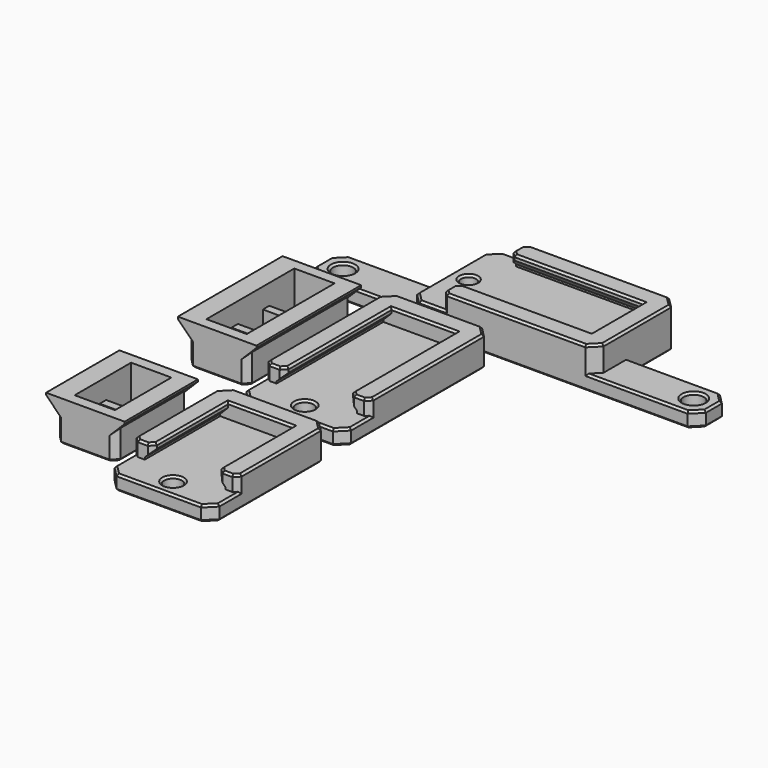
from build123d import *

# Parameters (mm, degrees)
PAD_DEPTH               = 26
SKETCH001_W             = 8
SKETCH001_H             = 6.2
POCKET_DEPTH            = 8.001
SKETCH002_W             = 8
SKETCH002_H             = 21.8
POCKET001_DEPTH         = 4
CHAMFER002_SIZE         = 1.2
CHAMFER004_SIZE         = 0.4
BODY_PLACEMENT_ANGLE    = 180
PAD001_DEPTH            = 37
SKETCH004_W             = 20.8
SKETCH004_H             = 4
PAD002_DEPTH            = 3
SKETCH005_W             = 20.8
SKETCH005_H             = 6.5
POCKET002_DEPTH         = 3
SKETCH006_R             = 1.75
POCKET003_DEPTH         = 3.001
CHAMFER_SIZE            = 2
CHAMFER003_SIZE         = 1
CHAMFER005_SIZE         = 0.4
SKETCH007_R             = 2
PAD003_DEPTH            = 3
PAD004_DEPTH            = 37
SKETCH009_W             = 4
SKETCH009_H             = 20.8
PAD005_DEPTH            = 3
SKETCH010_W             = 6.5
SKETCH010_H             = 20.8
POCKET004_DEPTH         = 3
SKETCH011_R             = 1.5
POCKET005_DEPTH         = 5.001
CHAMFER006_SIZE         = 2
CHAMFER007_SIZE         = 1
CHAMFER008_SIZE         = 0.4
PAD006_DEPTH            = 18.2
SKETCH013_W             = 8
SKETCH013_H             = 6.2
POCKET006_DEPTH         = 8.001
SKETCH014_W             = 8
SKETCH014_H             = 14
POCKET007_DEPTH         = 4
CHAMFER009_SIZE         = 1.2
CHAMFER010_SIZE         = 0.4
BODY004_PLACEMENT_ANGLE = 180
PAD007_DEPTH            = 29.2
SKETCH016_W             = 20.8
SKETCH016_H             = 4
PAD008_DEPTH            = 3
SKETCH017_W             = 20.8
SKETCH017_H             = 6.5
POCKET008_DEPTH         = 3
SKETCH018_R             = 1.75
POCKET009_DEPTH         = 3.001
CHAMFER011_SIZE         = 2
CHAMFER012_SIZE         = 1
CHAMFER013_SIZE         = 0.4


with BuildPart() as holder_3way:
    # Sketch → Pad (new body)
    with BuildSketch(Plane.XZ):
        Polygon((0.4, 0.4), (2.2, 2.2), (2.2, 8), (14.2, 8), (14.2, 2.2), (16, 0.4), (16, 0), (0.4, 0), align=None)
    extrude(amount=PAD_DEPTH)

    # Sketch001 (on Face3 of Pad) → Pocket (cut, through all)
    with BuildSketch(Plane(origin=(0, 0, 8), x_dir=(-1, 0, 0), z_dir=(0, 0, 1))):
        with Locations((-8, 20.8)):
            Rectangle(SKETCH001_W, SKETCH001_H)
        with Locations((-8, 13)):
            Rectangle(SKETCH001_W, SKETCH001_H)
        with Locations((-8, 5.2)):
            Rectangle(SKETCH001_W, SKETCH001_H)
    extrude(amount=-POCKET_DEPTH, mode=Mode.SUBTRACT)

    # Sketch002 (on Face6 of Pocket) → Pocket001 (cut)
    with BuildSketch(Plane(origin=(0, 0, 0), x_dir=(1, 0, 0), z_dir=(0, 0, -1))):
        with Locations((8, 13)):
            Rectangle(SKETCH002_W, SKETCH002_H)
    extrude(amount=-POCKET001_DEPTH, mode=Mode.SUBTRACT)

    # Chamfer002
    chamfer002_edges = [holder_3way.edges().sort_by_distance(p)[0] for p in [
        (2.2, -26, 5.1),
        (14.2, -26, 5.1),
        (14.2, 0, 5.1),
        (2.2, 0, 5.1),
    ]]
    chamfer(chamfer002_edges, length=CHAMFER002_SIZE)

    # Chamfer004
    chamfer004_edges = [holder_3way.edges().sort_by_distance(p)[0] for p in [
        (8.2, -26, 8),
        (2.8, -25.4, 8),
        (2.2, -13, 8),
        (2.8, -0.6, 8),
        (8.2, 0, 8),
        (13.6, -0.6, 8),
        (14.2, -13, 8),
        (13.6, -25.4, 8),
        (4, -20.8, 8),
        (8, -17.7, 8),
        (12, -20.8, 8),
        (8, -23.9, 8),
        (4, -13, 8),
        (8, -9.9, 8),
        (12, -13, 8),
        (8, -16.1, 8),
        (4, -5.2, 8),
        (8, -2.1, 8),
        (12, -5.2, 8),
        (8, -8.3, 8),
    ]]
    chamfer(chamfer004_edges, length=CHAMFER004_SIZE)


with BuildPart() as holder_3way_1:
    # Body placement: moved
    add(holder_3way.part.moved(Location((16, -4, 8))).rotate(Axis((16, -4, 8), (0, 1, 0)), BODY_PLACEMENT_ANGLE))


with BuildPart() as baseextrusion_3way:
    # Sketch003 → Pad001 (new body)
    with BuildSketch(Plane.XZ):
        Polygon((-2.4, -3), (18.4, -3), (18.4, 3), (14.4, 3), (14.4, 2), (16, 0.4), (16, 0), (0, 0), (0, 0.4), (1.6, 2), (1.6, 3), (-2.4, 3), align=None)
    extrude(amount=PAD001_DEPTH)

    # Sketch004 (on Face11 of Pad001) → Pad002 (join)
    with BuildSketch(Plane(origin=(0, 0, 0), x_dir=(-1, 0, 0), z_dir=(0, 0, 1))):
        with Locations((-8, 2)):
            Rectangle(SKETCH004_W, SKETCH004_H)
    extrude(amount=PAD002_DEPTH)

    # Sketch005 (on Face12 of Pad002) → Pocket002 (cut)
    with BuildSketch(Plane(origin=(0, 0, 3), x_dir=(-1, 0, 0), z_dir=(0, 0, 1))):
        with Locations((-8, 33.75)):
            Rectangle(SKETCH005_W, SKETCH005_H)
    extrude(amount=-POCKET002_DEPTH, mode=Mode.SUBTRACT)

    # Sketch006 (on Face16 of Pocket002) → Pocket003 (cut, through all)
    with BuildSketch(Plane(origin=(0, 0, 0), x_dir=(-1, 0, 0), z_dir=(0, 0, 1))):
        with Locations((-8, 33.5)):
            Circle(SKETCH006_R)
    extrude(amount=-POCKET003_DEPTH, mode=Mode.SUBTRACT)

    # Chamfer
    chamfer_edges = [baseextrusion_3way.edges().sort_by_distance(p)[0] for p in [
        (18.4, 0, 0),
        (-2.4, 0, 0),
        (18.4, -37, -1.5),
        (-2.4, -37, -1.5),
    ]]
    chamfer(chamfer_edges, length=CHAMFER_SIZE)

    # Chamfer003
    chamfer003_edges = [baseextrusion_3way.edges().sort_by_distance(p)[0] for p in [
        (1.6, -30.5, 2.5),
        (14.4, -30.5, 2.5),
        (-2.4, -30.5, 1.5),
        (18.4, -30.5, 1.5),
    ]]
    chamfer(chamfer003_edges, length=CHAMFER003_SIZE)

    # Chamfer005
    chamfer005_edges = [baseextrusion_3way.edges().sort_by_distance(p)[0] for p in [
        (8, -37, -3),
        (17.4, -36, -3),
        (18.4, -18.5, -3),
        (17.4, -1, -3),
        (8, 0, -3),
        (-1.4, -1, -3),
        (-2.4, -18.5, -3),
        (-1.4, -36, -3),
        (-2.4, -32.75, 0),
        (-1.4, -36, 0),
        (8, -37, 0),
        (17.4, -36, 0),
        (18.4, -32.75, 0),
        (9.75, -33.5, -3),
        (9.75, -33.5, 0),
        (1.1, -30, 3),
        (-0.4, -30.5, 3),
        (-1.9, -30, 3),
        (-2.4, -15.75, 3),
        (-1.4, -1, 3),
        (8, 0, 3),
        (17.4, -1, 3),
        (18.4, -15.75, 3),
        (17.9, -30, 3),
        (16.4, -30.5, 3),
        (14.9, -30, 3),
        (14.4, -16.75, 3),
        (8, -4, 3),
        (1.6, -16.75, 3),
    ]]
    chamfer(chamfer005_edges, length=CHAMFER005_SIZE)


with BuildPart() as baseextrusion_3way_1:
    # Body001 placement: moved
    add(baseextrusion_3way.part.moved(Location((20, 0, 3))))


with BuildPart() as obj1:
    # Sketch007 → Pad003 (new body)
    with BuildSketch(Plane.XY):
        Polygon((0, 0), (77.625, 0), (77.625, 8), (57.3125, 8), (57.3125, 20.8), (20.3125, 20.8), (20.3125, 8), (0, 8), align=None)
        with Locations((4, 4)):
            Circle(SKETCH007_R, mode=Mode.SUBTRACT)
        with Locations((73.625, 4)):
            Circle(SKETCH007_R, mode=Mode.SUBTRACT)
    extrude(amount=PAD003_DEPTH)

    # Sketch008 (on Face8 of Pad003) → Pad004 (join)
    with BuildSketch(Plane(origin=(20.3125, 0, 0), x_dir=(0, -1, 0), z_dir=(-1, 0, 0))):
        Polygon((-20.8, 3), (0, 3), (0, 8), (-4, 8), (-4, 7), (-2.4, 5.4), (-2.4, 5), (-18.4, 5), (-18.4, 5.4), (-16.8, 7), (-16.8, 8), (-20.8, 8), align=None)
    extrude(amount=-PAD004_DEPTH)

    # Sketch009 (on Face19 of Pad004) → Pad005 (join)
    with BuildSketch(Plane.XY.offset(5)):
        with Locations((55.3125, 10.4)):
            Rectangle(SKETCH009_W, SKETCH009_H)
    extrude(amount=PAD005_DEPTH)

    # Sketch010 (on Face20 of Pad005) → Pocket004 (cut)
    with BuildSketch(Plane.XY.offset(8)):
        with Locations((23.5625, 10.4)):
            Rectangle(SKETCH010_W, SKETCH010_H)
    extrude(amount=-POCKET004_DEPTH, mode=Mode.SUBTRACT)

    # Sketch011 (on Face24 of Pocket004) → Pocket005 (cut, through all)
    with BuildSketch(Plane.XY.offset(5)):
        with Locations((23.8125, 10.4)):
            Circle(SKETCH011_R)
    extrude(amount=-POCKET005_DEPTH, mode=Mode.SUBTRACT)

    # Chamfer006
    chamfer006_edges = [obj1.edges().sort_by_distance(p)[0] for p in [
        (20.3125, 20.8, 2.5),
        (20.3125, 0, 4),
        (57.3125, 0, 5.5),
        (57.3125, 20.8, 4),
        (77.625, 8, 1.5),
        (77.625, 0, 1.5),
        (0, 8, 1.5),
        (0, 0, 1.5),
    ]]
    chamfer(chamfer006_edges, length=CHAMFER006_SIZE)

    # Chamfer007
    chamfer007_edges = [obj1.edges().sort_by_distance(p)[0] for p in [
        (26.8125, 20.8, 6.5),
        (26.8125, 16.8, 7.5),
        (26.8125, 4, 7.5),
        (26.8125, 0, 6.5),
    ]]
    chamfer(chamfer007_edges, length=CHAMFER007_SIZE)

    # Chamfer008
    chamfer008_edges = [obj1.edges().sort_by_distance(p)[0] for p in [
        (0, 4, 0),
        (1, 1, 0),
        (38.8125, 0, 0),
        (76.625, 1, 0),
        (77.625, 4, 0),
        (76.625, 7, 0),
        (66.46875, 8, 0),
        (57.3125, 13.4, 0),
        (56.3125, 19.8, 0),
        (38.8125, 20.8, 0),
        (21.3125, 19.8, 0),
        (20.3125, 13.4, 0),
        (11.15625, 8, 0),
        (1, 7, 0),
        (2, 4, 0),
        (22.3125, 10.4, 0),
        (71.625, 4, 0),
        (11.15625, 0, 3),
        (1, 1, 3),
        (0, 4, 3),
        (1, 7, 3),
        (11.15625, 8, 3),
        (2, 4, 3),
        (66.46875, 0, 3),
        (76.625, 1, 3),
        (77.625, 4, 3),
        (76.625, 7, 3),
        (66.46875, 8, 3),
        (71.625, 4, 3),
        (24.5625, 0, 5),
        (21.3125, 1, 5),
        (20.3125, 10.4, 5),
        (21.3125, 19.8, 5),
        (24.5625, 20.8, 5),
        (22.3125, 10.4, 5),
        (26.8125, 18.8, 8),
        (27.3125, 20.3, 8),
        (41.5625, 20.8, 8),
        (56.3125, 19.8, 8),
        (57.3125, 10.4, 8),
        (56.3125, 1, 8),
        (41.5625, 0, 8),
        (27.3125, 0.5, 8),
        (26.8125, 2, 8),
        (27.3125, 3.5, 8),
        (40.5625, 4, 8),
        (53.3125, 10.4, 8),
        (40.5625, 16.8, 8),
        (27.3125, 17.3, 8),
    ]]
    chamfer(chamfer008_edges, length=CHAMFER008_SIZE)


with BuildPart() as obj1_1:
    # Body003 placement: moved
    add(obj1.part.moved(Location((0, 2, 0))))


with BuildPart() as holder_2way:
    # Sketch012 → Pad006 (new body)
    with BuildSketch(Plane.XZ):
        Polygon((0.4, 0.4), (2.2, 2.2), (2.2, 8), (14.2, 8), (14.2, 2.2), (16, 0.4), (16, 0), (0.4, 0), align=None)
    extrude(amount=PAD006_DEPTH)

    # Sketch013 (on Face3 of Pad006) → Pocket006 (cut, through all)
    with BuildSketch(Plane(origin=(0, 0, 8), x_dir=(-1, 0, 0), z_dir=(0, 0, 1))):
        with Locations((-8, 13)):
            Rectangle(SKETCH013_W, SKETCH013_H)
        with Locations((-8, 5.2)):
            Rectangle(SKETCH013_W, SKETCH013_H)
    extrude(amount=-POCKET006_DEPTH, mode=Mode.SUBTRACT)

    # Sketch014 (on Face6 of Pocket006) → Pocket007 (cut)
    with BuildSketch(Plane(origin=(0, 0, 0), x_dir=(1, 0, 0), z_dir=(0, 0, -1))):
        with Locations((8, 9.1)):
            Rectangle(SKETCH014_W, SKETCH014_H)
    extrude(amount=-POCKET007_DEPTH, mode=Mode.SUBTRACT)

    # Chamfer009
    chamfer009_edges = [holder_2way.edges().sort_by_distance(p)[0] for p in [
        (14.2, 0, 5.1),
        (2.2, 0, 5.1),
        (2.2, -18.2, 5.1),
        (14.2, -18.2, 5.1),
    ]]
    chamfer(chamfer009_edges, length=CHAMFER009_SIZE)

    # Chamfer010
    chamfer010_edges = [holder_2way.edges().sort_by_distance(p)[0] for p in [
        (8.2, -18.2, 8),
        (2.8, -17.6, 8),
        (2.2, -9.1, 8),
        (2.8, -0.6, 8),
        (8.2, 0, 8),
        (13.6, -0.6, 8),
        (14.2, -9.1, 8),
        (13.6, -17.6, 8),
        (8, -16.1, 8),
        (4, -13, 8),
        (8, -9.9, 8),
        (12, -13, 8),
        (8, -8.3, 8),
        (4, -5.2, 8),
        (8, -2.1, 8),
        (12, -5.2, 8),
    ]]
    chamfer(chamfer010_edges, length=CHAMFER010_SIZE)


with BuildPart() as holder_2way_1:
    # Body004 placement: moved
    add(holder_2way.part.moved(Location((16, -44.5, 8))).rotate(Axis((16, -44.5, 8), (0, 1, 0)), BODY004_PLACEMENT_ANGLE))


with BuildPart() as baseextrusion_2way:
    # Sketch015 → Pad007 (new body)
    with BuildSketch(Plane.XZ):
        Polygon((-2.4, -3), (18.4, -3), (18.4, 3), (14.4, 3), (14.4, 2), (16, 0.4), (16, 0), (0, 0), (0, 0.4), (1.6, 2), (1.6, 3), (-2.4, 3), align=None)
    extrude(amount=PAD007_DEPTH)

    # Sketch016 (on Face11 of Pad007) → Pad008 (join)
    with BuildSketch(Plane(origin=(0, 0, 0), x_dir=(-1, 0, 0), z_dir=(0, 0, 1))):
        with Locations((-8, 2)):
            Rectangle(SKETCH016_W, SKETCH016_H)
    extrude(amount=PAD008_DEPTH)

    # Sketch017 (on Face12 of Pad008) → Pocket008 (cut)
    with BuildSketch(Plane(origin=(0, 0, 3), x_dir=(-1, 0, 0), z_dir=(0, 0, 1))):
        with Locations((-8, 25.95)):
            Rectangle(SKETCH017_W, SKETCH017_H)
    extrude(amount=-POCKET008_DEPTH, mode=Mode.SUBTRACT)

    # Sketch018 (on Face16 of Pocket008) → Pocket009 (cut, through all)
    with BuildSketch(Plane(origin=(0, 0, 0), x_dir=(-1, 0, 0), z_dir=(0, 0, 1))):
        with Locations((-8, 25.7)):
            Circle(SKETCH018_R)
    extrude(amount=-POCKET009_DEPTH, mode=Mode.SUBTRACT)

    # Chamfer011
    chamfer011_edges = [baseextrusion_2way.edges().sort_by_distance(p)[0] for p in [
        (18.4, 0, 0),
        (-2.4, 0, 0),
        (18.4, -29.2, -1.5),
        (-2.4, -29.2, -1.5),
    ]]
    chamfer(chamfer011_edges, length=CHAMFER011_SIZE)

    # Chamfer012
    chamfer012_edges = [baseextrusion_2way.edges().sort_by_distance(p)[0] for p in [
        (1.6, -22.7, 2.5),
        (14.4, -22.7, 2.5),
        (-2.4, -22.7, 1.5),
        (18.4, -22.7, 1.5),
    ]]
    chamfer(chamfer012_edges, length=CHAMFER012_SIZE)

    # Chamfer013
    chamfer013_edges = [baseextrusion_2way.edges().sort_by_distance(p)[0] for p in [
        (8, 0, -3),
        (-1.4, -1, -3),
        (-2.4, -14.6, -3),
        (-1.4, -28.2, -3),
        (8, -29.2, -3),
        (17.4, -28.2, -3),
        (18.4, -14.6, -3),
        (17.4, -1, -3),
        (9.75, -25.7, -3),
        (9.75, -25.7, 0),
        (8, 0, 3),
        (17.4, -1, 3),
        (18.4, -11.85, 3),
        (17.9, -22.2, 3),
        (16.4, -22.7, 3),
        (14.9, -22.2, 3),
        (14.4, -12.85, 3),
        (8, -4, 3),
        (1.6, -12.85, 3),
        (1.1, -22.2, 3),
        (-0.4, -22.7, 3),
        (-1.9, -22.2, 3),
        (-2.4, -11.85, 3),
        (-1.4, -1, 3),
        (-2.4, -24.95, 0),
        (-1.4, -28.2, 0),
        (8, -29.2, 0),
        (17.4, -28.2, 0),
        (18.4, -24.95, 0),
    ]]
    chamfer(chamfer013_edges, length=CHAMFER013_SIZE)


with BuildPart() as baseextrusion_2way_1:
    # Body005 placement: moved
    add(baseextrusion_2way.part.moved(Location((20, -40.5, 3))))


solid = Compound([holder_3way_1.part, baseextrusion_3way_1.part, obj1_1.part, holder_2way_1.part, baseextrusion_2way_1.part])
